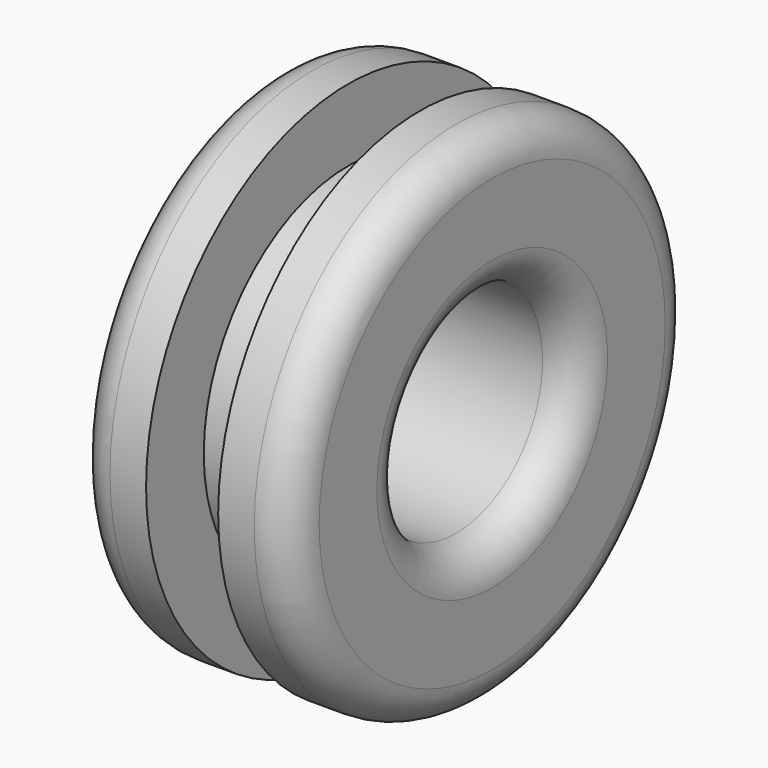
from build123d import *

# Parameters (mm, degrees)
F2_R = 1


with BuildPart() as f1:
    # F0 (on Top) → F1 (revolve)
    with BuildSketch(Plane.XY):
        with BuildLine():
            Line((0, -3), (-3, -3))
            Line((-3, -3), (-3, -6))
            ThreePointArc((-3, -6), (-2.707107, -6.707107), (-2, -7))
            Line((-2, -7), (-1, -7))
            Line((-1, -7), (-1, -5))
            Line((-1, -5), (0, -5))
            Line((0, -5), (1, -5))
            Line((1, -5), (1, -7))
            Line((1, -7), (2, -7))
            ThreePointArc((2, -7), (2.707107, -6.707107), (3, -6))
            Line((3, -6), (3, -3))
            Line((3, -3), (0, -3))
        make_face()
    revolve(axis=Axis((1.880628, 0, 0), (1, 0, 0)))

    # F2
    f2_edges = [f1.edges().sort_by_distance(p)[0] for p in [
        (-3, 3, 0),
        (3, 3, 0),
    ]]
    fillet(f2_edges, radius=F2_R)


solid = f1.part
